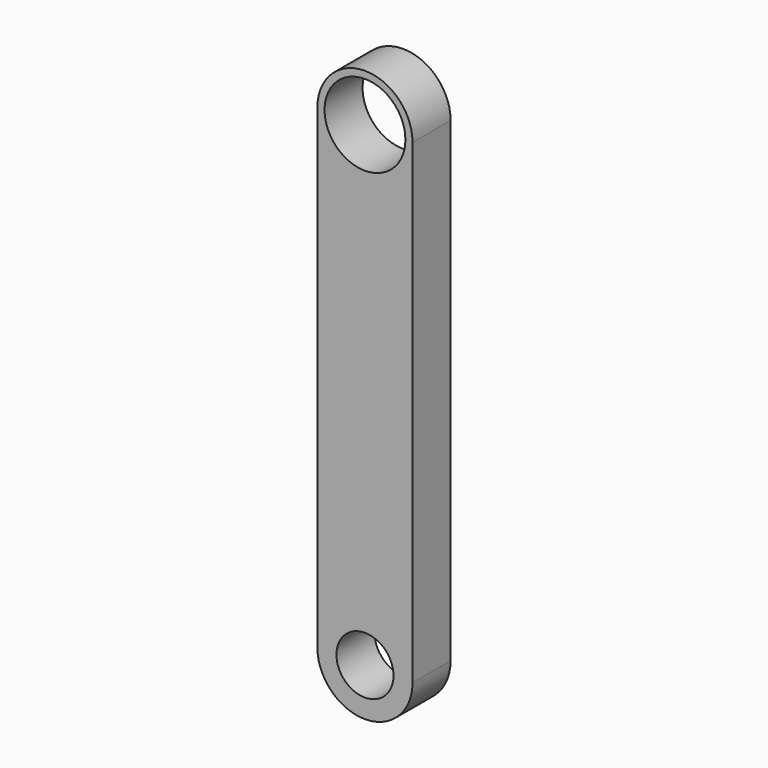
from build123d import *

# Parameters (mm, degrees)
F0_R     = 3
F0_R_2   = 4.25
F1_DEPTH = 2.5


with BuildPart() as f1:
    # F0 (on Front) → F1 (new body, symmetric)
    with BuildSketch(Plane.XZ):
        with BuildLine():
            Line((5, -10.169502), (5, 39.830498))
            ThreePointArc((5, 39.830498), (0, 44.830498), (-5, 39.830498))
            Line((-5, 39.830498), (-5, -10.169502))
            ThreePointArc((-5, -10.169502), (0, -15.169502), (5, -10.169502))
        make_face()
        with Locations((0, -10.169502)):
            Circle(F0_R, mode=Mode.SUBTRACT)
        with Locations((0, 39.830498)):
            Circle(F0_R_2, mode=Mode.SUBTRACT)
    extrude(amount=F1_DEPTH, both=True)


solid = f1.part
